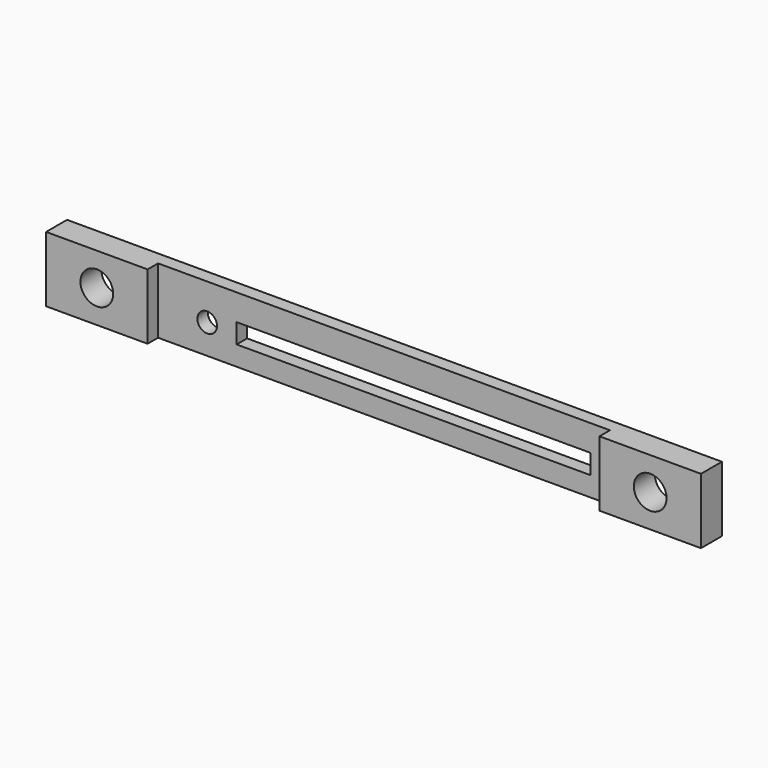
from build123d import *

# Parameters (mm, degrees)
F0_W      = 100
F0_H      = 10
F0_W_2    = 63
F0_H_2    = 3
F1_DEPTH  = 4
F2_W      = 69
F2_H      = 10
F3_DEPTH  = 2
F4_R      = 2.5
F5_DEPTH  = 25
F6_R      = 2.5
F7_DEPTH  = 25
F8_W      = 9
F8_H      = 3
F9_DEPTH  = 2
F10_R     = 1.5
F11_DEPTH = 25


with BuildPart() as f1:
    # F0 (on Front) → F1 (new body)
    with BuildSketch(Plane.XZ):
        Rectangle(F0_W, F0_H)
        with Locations((0, -0.5)):
            Rectangle(F0_W_2, F0_H_2, mode=Mode.SUBTRACT)
    extrude(amount=F1_DEPTH)

    # F2 (on face) → F3 (cut)
    with BuildSketch(Plane.XZ.offset(4)):
        Rectangle(F2_W, F2_H)
    extrude(amount=-F3_DEPTH, mode=Mode.SUBTRACT)

    # F4 (on face) → F5 (cut)
    with BuildSketch(Plane.XZ.offset(4)):
        with Locations((-42.25, 0)):
            Circle(F4_R)
    extrude(amount=-F5_DEPTH, mode=Mode.SUBTRACT)

    # F6 (on face) → F7 (cut)
    with BuildSketch(Plane.XZ.offset(4)):
        with Locations((42.25, 0)):
            Circle(F6_R)
    extrude(amount=-F7_DEPTH, mode=Mode.SUBTRACT)

    # F8 (on face) → F9 (join)
    with BuildSketch(Plane(origin=(0, 0, 0), x_dir=(-1, 0, 0), z_dir=(0, 1, 0))):
        with Locations((27, -0.5)):
            Rectangle(F8_W, F8_H)
    extrude(amount=-F9_DEPTH)

    # F10 (on face) → F11 (cut)
    with BuildSketch(Plane(origin=(0, 0, 0), x_dir=(-1, 0, 0), z_dir=(0, 1, 0))):
        with Locations((27, -0.5)):
            Circle(F10_R)
    extrude(amount=-F11_DEPTH, mode=Mode.SUBTRACT)


solid = f1.part
